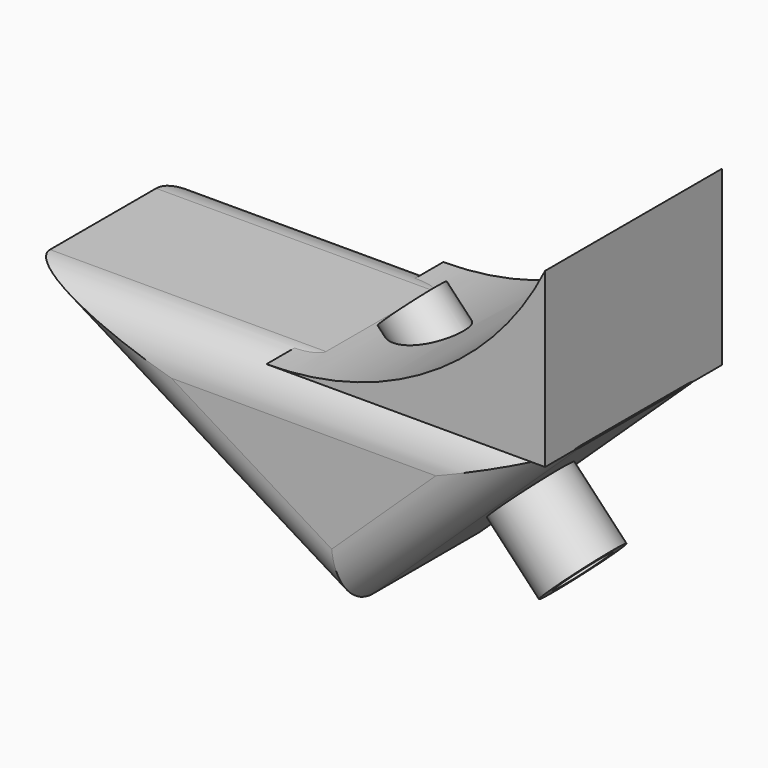
from build123d import *

# Parameters (mm, degrees)
F1_DEPTH  = 25
F2_R      = 5
F4_DEPTH  = 25
F5_R      = 4.586738227
F6_DEPTH  = 8.5901785642
F7_R      = 3.6228791996
F8_DEPTH  = 28.0857570469
F9_R      = 3.1821948937
F10_DEPTH = 44.3071853369


with BuildPart() as f1:
    # F0 (on Front) → F1 (new body)
    with BuildSketch(Plane.XZ):
        Polygon((-36.51381284, 22.3948657513), (0, 0), (23.6873179674, 22.3948657513), align=None)
    extrude(amount=F1_DEPTH)

    # F2
    f2_edges = [f1.edges().sort_by_distance(p)[0] for p in [
        (11.843659, -25, 11.197433),
        (11.843659, 0, 11.197433),
        (-18.256906, -25, 11.197433),
        (-6.413247, 0, 22.394866),
        (-6.413247, -25, 22.394866),
    ]]
    fillet(f2_edges, radius=F2_R)

    # F3 (on Front) → F4 (join)
    with BuildSketch(Plane.XZ):
        with BuildLine():
            Line((-8.0289142206, 22.2887210548), (23.4841555357, 22.2887210548))
            Line((23.4841555357, 22.2887210548), (23.4841555357, 41.8256605239))
            ThreePointArc((23.4841555357, 41.8256605239), (10.5100013982, 27.5692125926), (-8.0289142206, 22.2887210548))
        make_face()
    extrude(amount=F4_DEPTH)

    # F5 (on face) → F6 (join)
    with BuildSketch(Plane(origin=(0, 0, 0), x_dir=(0.7266530358, 0, 0.6870046329), z_dir=(0.6870046329, 0, -0.7266530358))):
        with Locations((16.2989190171, 12.5)):
            Circle(F5_R)
    extrude(amount=F6_DEPTH)

    # F7 (on face) → F8 (join)
    with BuildSketch(Plane(origin=(5.9014924708, 0, -6.2420793316), x_dir=(0.7266530358, 0, 0.6870046329), z_dir=(0.6870046329, 0, -0.7266530358))):
        with Locations((16.2989190171, 12.5)):
            Circle(F7_R)
    extrude(amount=-F8_DEPTH)

    # F9 (on face) → F10 (cut)
    with BuildSketch(Plane(origin=(-13.3935527382, 0, 14.1665212888), x_dir=(0.7266530358, 0, 0.6870046329), z_dir=(-0.6870046329, 0, 0.7266530358))):
        with Locations((16.2989190171, -12.5)):
            Circle(F9_R)
    extrude(amount=-F10_DEPTH, mode=Mode.SUBTRACT)


solid = f1.part
